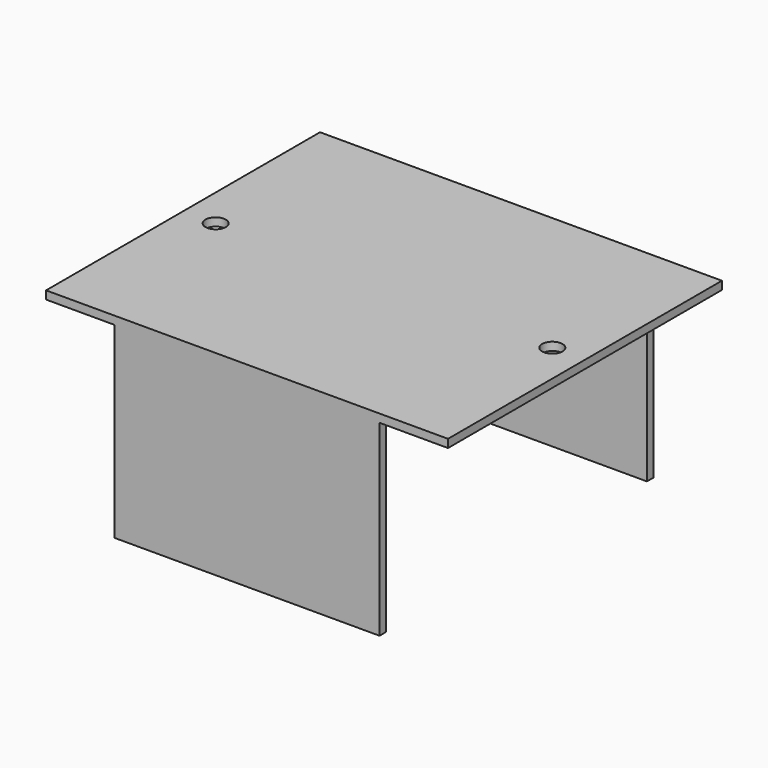
from build123d import *

# Parameters (mm, degrees)
F0_W     = 493
F0_H     = 420
F0_R     = 12.5
F1_DEPTH = 10
F2_W     = 325
F2_H     = 10
F3_DEPTH = 230


with BuildPart() as f1:
    # F0 (on Top) → F1 (new body)
    with BuildSketch(Plane.XY):
        with Locations((246.5, 210)):
            Rectangle(F0_W, F0_H)
        with Locations((40, 210)):
            Circle(F0_R, mode=Mode.SUBTRACT)
        with Locations((453, 210)):
            Circle(F0_R, mode=Mode.SUBTRACT)
    extrude(amount=F1_DEPTH)

    # F2 (on face) → F3 (join)
    with BuildSketch(Plane(origin=(0, 0, 0), x_dir=(1, 0, 0), z_dir=(0, 0, -1))):
        with Locations((246.5, -5)):
            Rectangle(F2_W, F2_H)
        with Locations((246.5, -415)):
            Rectangle(F2_W, F2_H)
    extrude(amount=F3_DEPTH)


solid = f1.part
